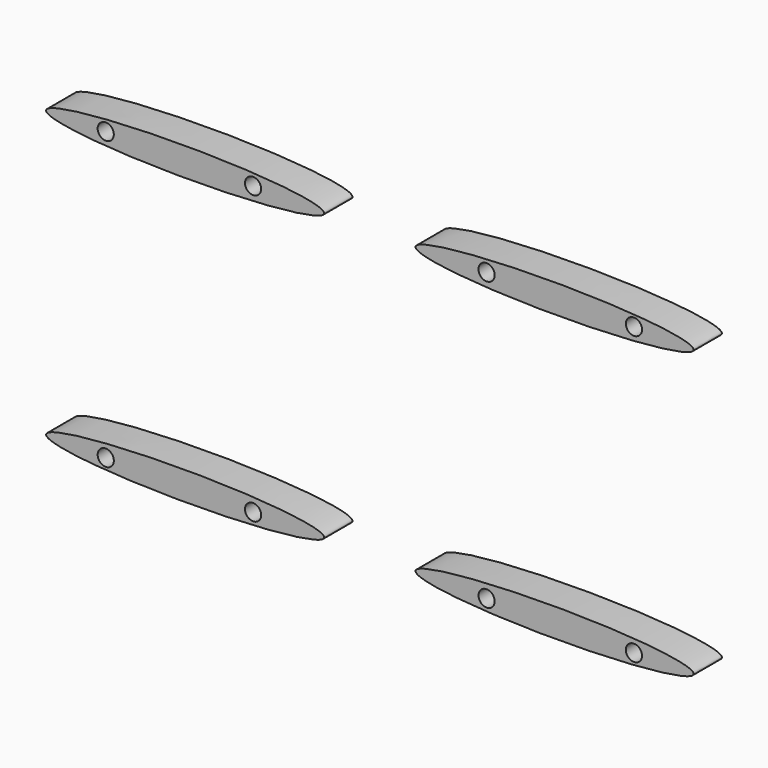
from build123d import *

# Parameters (mm, degrees)
F0_R     = 1.450518
F1_DEPTH = 6.35


with BuildPart() as f1:
    # F0 (on Front) → F1 (new body)
    with BuildSketch(Plane.XZ):
        with BuildLine():
            add(Edge.make_bspline(
                [(-8.19274, 25.592424), (-8.19274, 30.01758), (-45.606812, 27.805002), (-83.020884, 25.592424), (-45.606812, 23.379846), (-8.19274, 21.167267), (-8.19274, 25.592424)],
                knots=[0, 0, 0, 2.094395, 2.094395, 4.18879, 4.18879, 6.283185, 6.283185, 6.283185], degree=2, weights=[1, 0.5, 1, 0.5, 1, 0.5, 1]))
        make_face()
        with Locations((-47.37694, 25.753345)):
            Circle(F0_R, mode=Mode.SUBTRACT)
        with Locations((-20.944076, 25.753345)):
            Circle(F0_R, mode=Mode.SUBTRACT)
        with BuildLine():
            add(Edge.make_bspline(
                [(8.19274, 25.592424), (8.19274, 21.167267), (45.606812, 23.379846), (83.020884, 25.592424), (45.606812, 27.805002), (8.19274, 30.01758), (8.19274, 25.592424)],
                knots=[0, 0, 0, 2.094395, 2.094395, 4.18879, 4.18879, 6.283185, 6.283185, 6.283185], degree=2, weights=[1, 0.5, 1, 0.5, 1, 0.5, 1]))
        make_face()
        with Locations((20.944076, 25.753345)):
            Circle(F0_R, mode=Mode.SUBTRACT)
        with Locations((47.37694, 25.753345)):
            Circle(F0_R, mode=Mode.SUBTRACT)
        with BuildLine():
            add(Edge.make_bspline(
                [(-8.19274, -25.592424), (-8.19274, -21.167267), (-45.606812, -23.379846), (-83.020884, -25.592424), (-45.606812, -27.805002), (-8.19274, -30.01758), (-8.19274, -25.592424)],
                knots=[0, 0, 0, 2.094395, 2.094395, 4.18879, 4.18879, 6.283185, 6.283185, 6.283185], degree=2, weights=[1, 0.5, 1, 0.5, 1, 0.5, 1]))
        make_face()
        with Locations((-47.37694, -25.753345)):
            Circle(F0_R, mode=Mode.SUBTRACT)
        with Locations((-20.944076, -25.753345)):
            Circle(F0_R, mode=Mode.SUBTRACT)
        with BuildLine():
            add(Edge.make_bspline(
                [(8.19274, -25.592424), (8.19274, -30.01758), (45.606812, -27.805002), (83.020884, -25.592424), (45.606812, -23.379846), (8.19274, -21.167267), (8.19274, -25.592424)],
                knots=[0, 0, 0, 2.094395, 2.094395, 4.18879, 4.18879, 6.283185, 6.283185, 6.283185], degree=2, weights=[1, 0.5, 1, 0.5, 1, 0.5, 1]))
        make_face()
        with Locations((20.944076, -25.753345)):
            Circle(F0_R, mode=Mode.SUBTRACT)
        with Locations((47.37694, -25.753345)):
            Circle(F0_R, mode=Mode.SUBTRACT)
    extrude(amount=F1_DEPTH)


solid = f1.part
